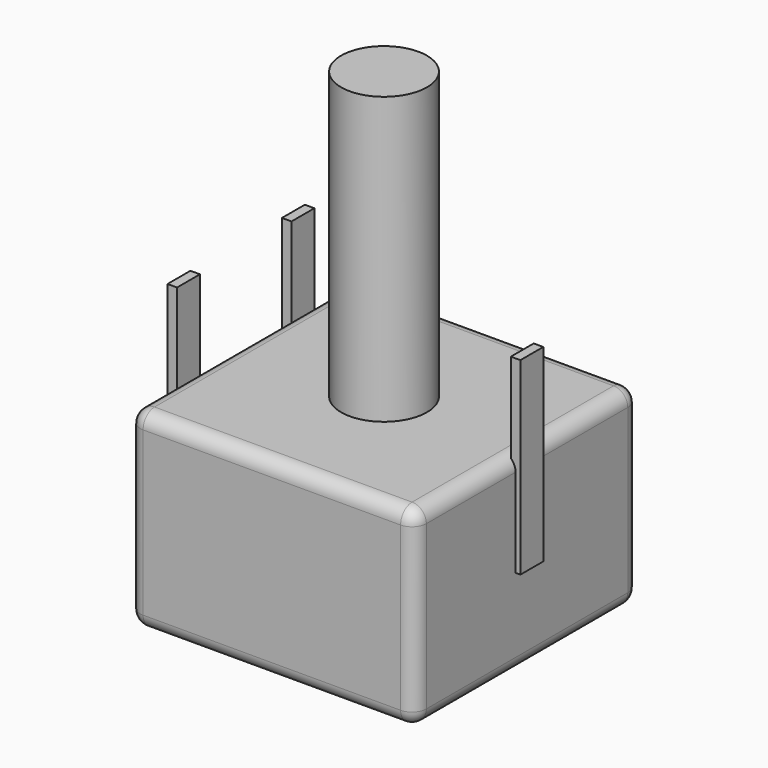
from build123d import *

# Parameters (mm, degrees)
SKETCH003_W       = 0.333334
SKETCH003_H       = 1
PAD002_DEPTH      = 1
PAD002_DEPTH_BACK = 5.6
SKETCH004_R       = 1.5
SKETCH004_W       = 2.25
SKETCH004_H       = 0.6
PAD003_DEPTH      = 6.7
SKETCH006_R       = 1.5
PAD005_DEPTH      = 10
SKETCH_W          = 10
SKETCH_H          = 9.8
SKETCH_R          = 1.5
PAD_DEPTH         = 6.7
FILLET_R          = 0.5


with BuildPart() as pad002:
    # Sketch003 → Pad002 (new body, two sides)
    with BuildSketch(Plane(origin=(0, 5, 0), x_dir=(1, 0, 0), z_dir=(0, 0, 1))) as pad002_sk:
        Rectangle(SKETCH003_W, SKETCH003_H)
        with Locations((10, -2.5)):
            Rectangle(SKETCH003_W, SKETCH003_H)
        with Locations((0, -5)):
            Rectangle(SKETCH003_W, SKETCH003_H)
    extrude(amount=PAD002_DEPTH)
    extrude(pad002_sk.sketch, amount=-PAD002_DEPTH_BACK)


with BuildPart() as pad003:
    # Sketch004 → Pad003 (new body)
    with BuildSketch(Plane(origin=(0, 5, -2), x_dir=(1, 0, 0), z_dir=(0, 0, 1))):
        with Locations((5, -2.5)):
            Circle(SKETCH004_R)
        with Locations((5, -2.5)):
            Rectangle(SKETCH004_W, SKETCH004_H, mode=Mode.SUBTRACT)
    extrude(amount=-PAD003_DEPTH)


with BuildPart() as pad005:
    # Sketch006 → Pad005 (new body)
    with BuildSketch(Plane(origin=(0, 5, -2), x_dir=(1, 0, 0), z_dir=(0, 0, 1))):
        with Locations((5, -2.5)):
            Circle(SKETCH006_R)
    extrude(amount=PAD005_DEPTH)


with BuildPart() as fillet_body:
    # Sketch → Pad (new body)
    with BuildSketch(Plane(origin=(0, 5, -2), x_dir=(1, 0, 0), z_dir=(0, 0, 1))):
        with Locations((5, -2.5)):
            Rectangle(SKETCH_W, SKETCH_H)
        with Locations((5, -2.5)):
            Circle(SKETCH_R, mode=Mode.SUBTRACT)
    extrude(amount=-PAD_DEPTH)

    # Fillet
    fillet_edges = [fillet_body.edges().sort_by_distance(p)[0] for p in [
        (5, -2.4, -2),
        (0, 2.5, -2),
        (5, 7.4, -2),
        (10, 2.5, -2),
        (10, 7.4, -5.35),
        (10, -2.4, -5.35),
        (0, -2.4, -5.35),
        (5, -2.4, -8.7),
        (10, 2.5, -8.7),
        (0, 2.5, -8.7),
        (5, 7.4, -8.7),
        (0, 7.4, -5.35),
    ]]
    fillet(fillet_edges, radius=FILLET_R)


solid = Compound([pad002.part, pad003.part, pad005.part, fillet_body.part])
